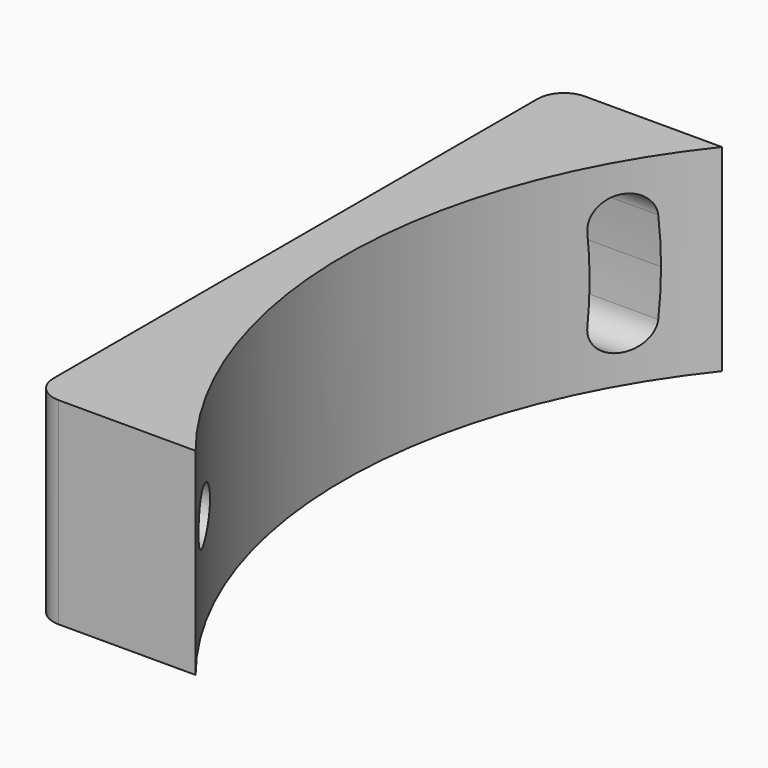
from build123d import *

# Parameters (mm, degrees)
F1_DEPTH = 19.05
F4_D     = 5
F4_DEPTH = 15.7
F4_TIP   = 1.5021515476
F5_DEPTH = 25.4


with BuildPart() as f1:
    # F0 (on Top) → F1 (new body)
    with BuildSketch(Plane.XY):
        with BuildLine():
            ThreePointArc((-39.6557372898, -31.75), (-50.8, 0), (-39.6557372898, 31.75))
            Line((-39.6557372898, 31.75), (-52.8699082947, 31.75))
            ThreePointArc((-52.8699082947, 31.75), (-54.6659595189, 31.0060512242), (-55.4099082947, 29.21))
            Line((-55.4099082947, 29.21), (-55.4099082947, -29.21))
            ThreePointArc((-55.4099082947, -29.21), (-54.6659595189, -31.0060512242), (-52.8699082947, -31.75))
            Line((-52.8699082947, -31.75), (-39.6557372898, -31.75))
        make_face()
    extrude(amount=F1_DEPTH)

    # F4
    with Locations(Plane(origin=(-55.4099082947, 0, 0), x_dir=(0, -1, 0), z_dir=(-1, 0, 0))):
        with Locations((25.4, 9.525)):
            Hole(F4_D / 2, depth=F4_DEPTH)
            with Locations((0, 0, -(F4_DEPTH + F4_TIP / 2))):  # 118° drill point
                Cone(0, F4_D / 2, F4_TIP, mode=Mode.SUBTRACT)

    # F3 (on offset) → F5 (cut)
    with BuildSketch(Plane(origin=(-55.4099082947, 0, 0), x_dir=(0, -1, 0), z_dir=(-1, 0, 0))):
        with BuildLine():
            ThreePointArc((-27.7153407028, 13.9654662391), (-27.8542875294, 11.747165191), (-27.90063, 9.525))
            Line((-27.90063, 9.525), (-22.89937, 9.525))
            ThreePointArc((-22.89937, 9.525), (-22.8573758972, 11.538656851), (-22.7314666127, 13.5488121361))
            ThreePointArc((-22.7314666127, 13.5488121361), (-25.0150766063, 16.2490762326), (-27.7153407028, 13.9654662391))
        make_face()
        with BuildLine():
            Line((-22.89937, 9.525), (-27.90063, 9.525))
            ThreePointArc((-27.90063, 9.525), (-27.8542875294, 7.302834809), (-27.7153407028, 5.0845337609))
            ThreePointArc((-27.7153407028, 5.0845337609), (-25.0150766063, 2.8009237674), (-22.7314666127, 5.5011878639))
            ThreePointArc((-22.7314666127, 5.5011878639), (-22.8573758972, 7.511343149), (-22.89937, 9.525))
        make_face()
    extrude(amount=-F5_DEPTH, mode=Mode.SUBTRACT)


solid = f1.part
